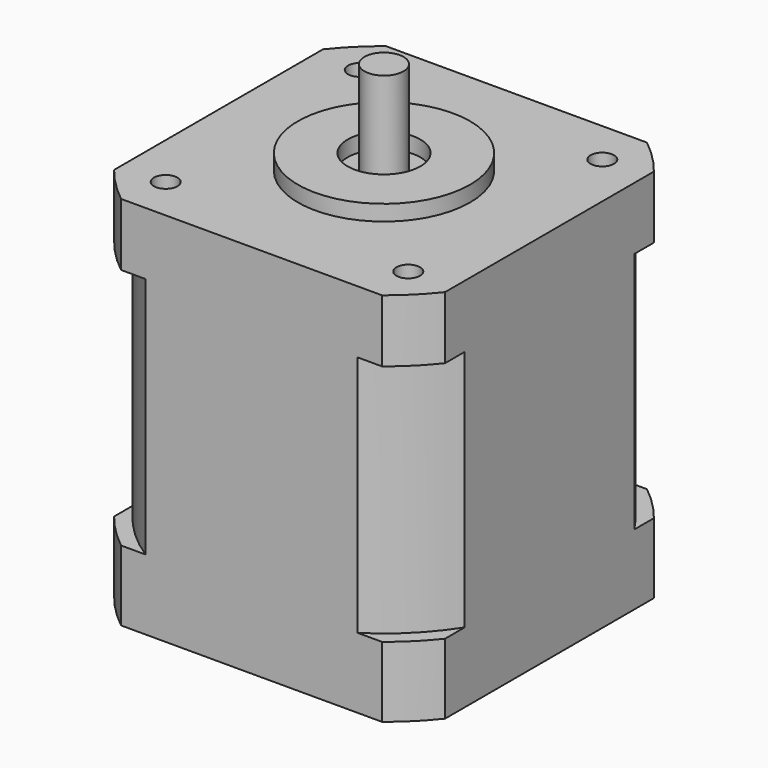
from build123d import *

# Parameters (mm, degrees)
F0_R     = 1.5
F0_R_2   = 11
F0_R_3   = 4.65
F0_R_4   = 2.5
F1_DEPTH = 48
F2_START = -8
F2_DEPTH = 31
F3_DEPTH = 2
F4_DEPTH = 12
F5_DEPTH = 4.5


with BuildPart() as f1:
    # F0 (on Top) → F1 (new body)
    with BuildSketch(Plane.XY):
        with BuildLine():
            Line((-13.5532984915, -21.15), (13.5532984915, -21.15))
            ThreePointArc((13.5532984915, -21.15), (17.7625223434, -17.7625223434), (21.15, -13.5532984915))
            Line((21.15, -13.5532984915), (21.15, 13.5532984915))
            ThreePointArc((21.15, 13.5532984915), (17.7625223434, 17.7625223434), (13.5532984915, 21.15))
            Line((13.5532984915, 21.15), (-13.5532984915, 21.15))
            ThreePointArc((-13.5532984915, 21.15), (-17.7625223434, 17.7625223434), (-21.15, 13.5532984915))
            Line((-21.15, 13.5532984915), (-21.15, -13.5532984915))
            ThreePointArc((-21.15, -13.5532984915), (-17.7625223434, -17.7625223434), (-13.5532984915, -21.15))
        make_face()
        with Locations((-15.5, -15.5)):
            Circle(F0_R, mode=Mode.SUBTRACT)
        with Locations((15.5, -15.5)):
            Circle(F0_R, mode=Mode.SUBTRACT)
        with Locations((-15.5, 15.5)):
            Circle(F0_R, mode=Mode.SUBTRACT)
        Circle(F0_R_2, mode=Mode.SUBTRACT)
        with Locations((15.5, 15.5)):
            Circle(F0_R, mode=Mode.SUBTRACT)
        Circle(F0_R_2)
        Circle(F0_R_3, mode=Mode.SUBTRACT)
        with Locations((-15.5, 15.5)):
            Circle(F0_R)
        with Locations((15.5, 15.5)):
            Circle(F0_R)
        with Locations((15.5, -15.5)):
            Circle(F0_R)
        with Locations((-15.5, -15.5)):
            Circle(F0_R)
        Circle(F0_R_3)
        Circle(F0_R_4, mode=Mode.SUBTRACT)
        Circle(F0_R_4)
        with BuildLine():
            ThreePointArc((13.5532984915, 21.15), (17.7625223434, 17.7625223434), (21.15, 13.5532984915))
            Line((21.15, 13.5532984915), (21.15, 16.6865544676))
            ThreePointArc((21.15, 16.6865544676), (19.0494566852, 19.0494566852), (16.6865544676, 21.15))
            Line((16.6865544676, 21.15), (13.5532984915, 21.15))
        make_face()
        with BuildLine():
            ThreePointArc((-16.6865544676, 21.15), (-19.0494566852, 19.0494566852), (-21.15, 16.6865544676))
            Line((-21.15, 16.6865544676), (-21.15, 13.5532984915))
            ThreePointArc((-21.15, 13.5532984915), (-17.7625223434, 17.7625223434), (-13.5532984915, 21.15))
            Line((-13.5532984915, 21.15), (-16.6865544676, 21.15))
        make_face()
        with BuildLine():
            ThreePointArc((-21.15, -16.6865544676), (-19.0494566852, -19.0494566852), (-16.6865544676, -21.15))
            Line((-16.6865544676, -21.15), (-13.5532984915, -21.15))
            ThreePointArc((-13.5532984915, -21.15), (-17.7625223434, -17.7625223434), (-21.15, -13.5532984915))
            Line((-21.15, -13.5532984915), (-21.15, -16.6865544676))
        make_face()
        with BuildLine():
            Line((13.5532984915, -21.15), (16.6865544676, -21.15))
            ThreePointArc((16.6865544676, -21.15), (19.0494566852, -19.0494566852), (21.15, -16.6865544676))
            Line((21.15, -16.6865544676), (21.15, -13.5532984915))
            ThreePointArc((21.15, -13.5532984915), (17.7625223434, -17.7625223434), (13.5532984915, -21.15))
        make_face()
    extrude(amount=-F1_DEPTH)

    # F0 (on Top) → F2 (cut)
    with BuildSketch(Plane.XY.offset(F2_START)):
        with BuildLine():
            ThreePointArc((-16.6865544676, 21.15), (-19.0494566852, 19.0494566852), (-21.15, 16.6865544676))
            Line((-21.15, 16.6865544676), (-21.15, 13.5532984915))
            ThreePointArc((-21.15, 13.5532984915), (-17.7625223434, 17.7625223434), (-13.5532984915, 21.15))
            Line((-13.5532984915, 21.15), (-16.6865544676, 21.15))
        make_face()
        with BuildLine():
            ThreePointArc((-21.15, -16.6865544676), (-19.0494566852, -19.0494566852), (-16.6865544676, -21.15))
            Line((-16.6865544676, -21.15), (-13.5532984915, -21.15))
            ThreePointArc((-13.5532984915, -21.15), (-17.7625223434, -17.7625223434), (-21.15, -13.5532984915))
            Line((-21.15, -13.5532984915), (-21.15, -16.6865544676))
        make_face()
        with BuildLine():
            ThreePointArc((13.5532984915, 21.15), (17.7625223434, 17.7625223434), (21.15, 13.5532984915))
            Line((21.15, 13.5532984915), (21.15, 16.6865544676))
            ThreePointArc((21.15, 16.6865544676), (19.0494566852, 19.0494566852), (16.6865544676, 21.15))
            Line((16.6865544676, 21.15), (13.5532984915, 21.15))
        make_face()
        with BuildLine():
            Line((13.5532984915, -21.15), (16.6865544676, -21.15))
            ThreePointArc((16.6865544676, -21.15), (19.0494566852, -19.0494566852), (21.15, -16.6865544676))
            Line((21.15, -16.6865544676), (21.15, -13.5532984915))
            ThreePointArc((21.15, -13.5532984915), (17.7625223434, -17.7625223434), (13.5532984915, -21.15))
        make_face()
    extrude(amount=-F2_DEPTH, mode=Mode.SUBTRACT)

    # F0 (on Top) → F3 (join)
    with BuildSketch(Plane.XY):
        Circle(F0_R_2)
        Circle(F0_R_3, mode=Mode.SUBTRACT)
    extrude(amount=F3_DEPTH)

    # F0 (on Top) → F4 (join)
    with BuildSketch(Plane.XY):
        Circle(F0_R_4)
    extrude(amount=F4_DEPTH)

    # F0 (on Top) → F5 (cut)
    with BuildSketch(Plane.XY):
        with Locations((-15.5, 15.5)):
            Circle(F0_R)
        with Locations((15.5, 15.5)):
            Circle(F0_R)
        with Locations((15.5, -15.5)):
            Circle(F0_R)
        with Locations((-15.5, -15.5)):
            Circle(F0_R)
    extrude(amount=-F5_DEPTH, mode=Mode.SUBTRACT)


solid = f1.part
